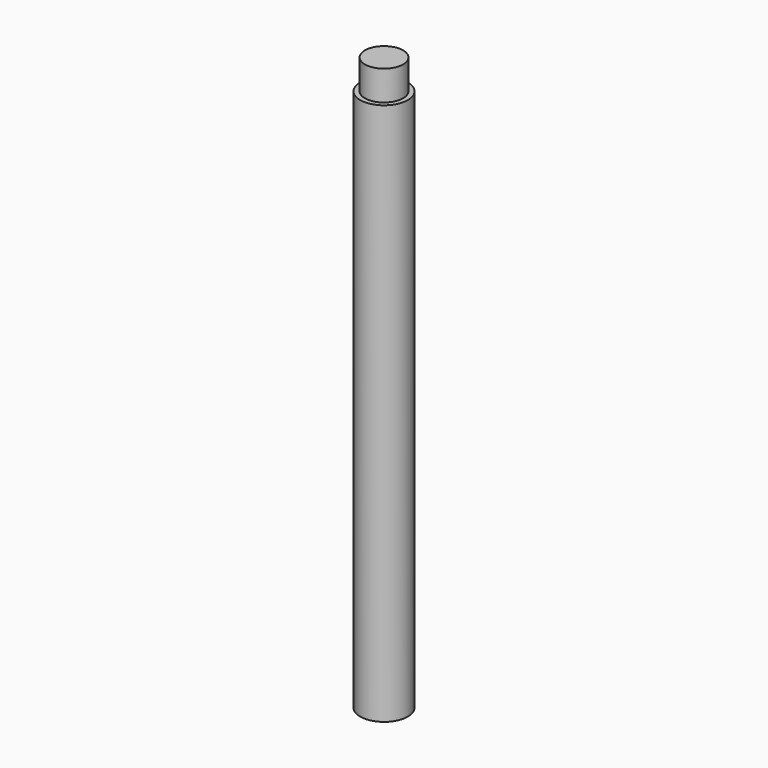
from build123d import *

# Parameters (mm, degrees)
F0_R     = 25.4
F1_DEPTH = 609.6
F2_R     = 25.4
F2_R_2   = 20.32
F3_DEPTH = 31.75


with BuildPart() as f1:
    # F0 (on Top) → F1 (new body)
    with BuildSketch(Plane.XY):
        Circle(F0_R)
    extrude(amount=F1_DEPTH)

    # F2 (on face) → F3 (cut)
    with BuildSketch(Plane.XY.offset(609.6)):
        Circle(F2_R)
        Circle(F2_R_2, mode=Mode.SUBTRACT)
    extrude(amount=-F3_DEPTH, mode=Mode.SUBTRACT)


solid = f1.part
